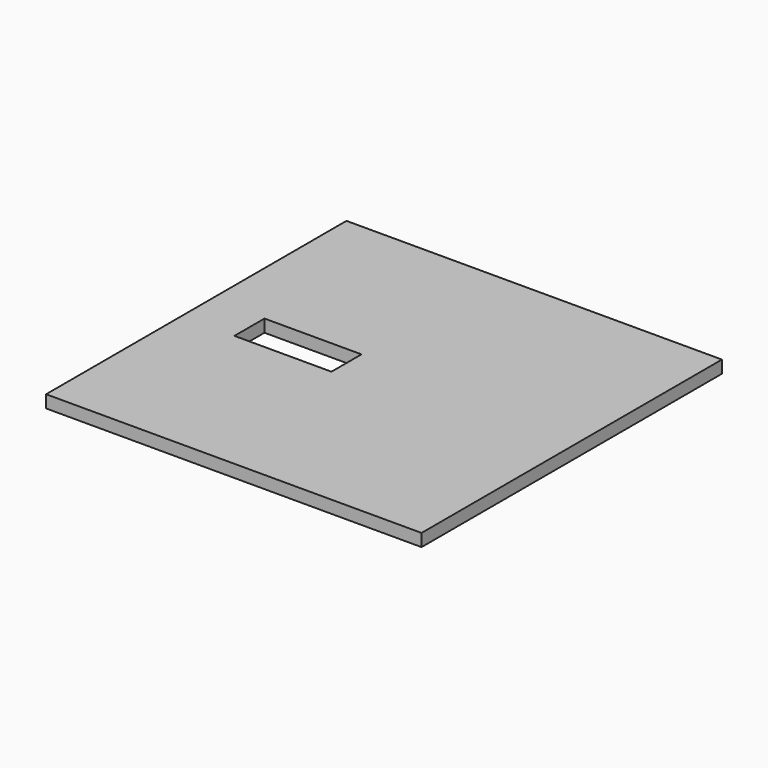
from build123d import *

# Parameters (mm, degrees)
F0_W     = 1524
F0_H     = 1524
F1_DEPTH = 50.8
F2_W     = 393.7
F2_H     = 76.2
F3_DEPTH = 314.96


with BuildPart() as f1:
    # F0 (on Top) → F1 (new body)
    with BuildSketch(Plane.XY):
        Rectangle(F0_W, F0_H)
    extrude(amount=F1_DEPTH)

    # F2 (on face) → F3 (cut)
    with BuildSketch(Plane.XY.offset(50.8)):
        with Locations((-349.25, -38.1)):
            Rectangle(F2_W, F2_H)
        with Locations((-349.25, 38.1)):
            Rectangle(F2_W, F2_H)
    extrude(amount=-F3_DEPTH, mode=Mode.SUBTRACT)


solid = f1.part
